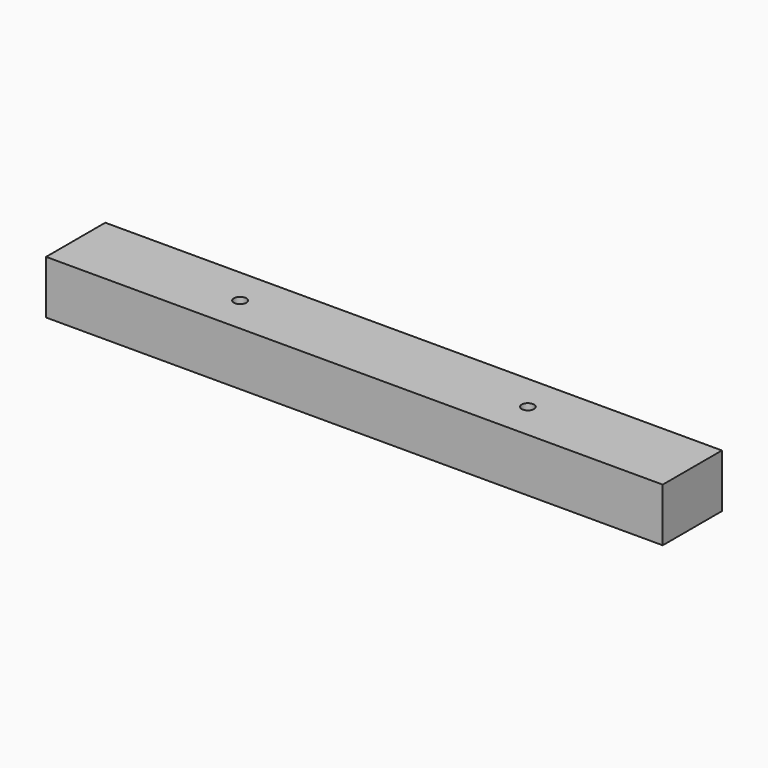
from build123d import *

# Parameters (mm, degrees)
SKETCH_W                 = 300
SKETCH_H                 = 36
PAD_DEPTH                = 26
SKETCH001_R              = 3
SKETCH001_R_2            = 1.6
POCKET_DEPTH             = 20
SKETCH002_R              = 3
POCKET001_DEPTH          = 15
SKETCH003_R              = 3.25
POCKET002_DEPTH          = 7
CLONE002_PLACEMENT_ANGLE = 180


with BuildPart() as part:
    # Sketch → Pad (new body)
    with BuildSketch(Plane.XY):
        with Locations((150, 18)):
            Rectangle(SKETCH_W, SKETCH_H)
    extrude(amount=-PAD_DEPTH)

    # Sketch001 (on Face5 of Pad) → Pocket (cut)
    with BuildSketch(Plane.XY):
        with Locations((25, 18)):
            Circle(SKETCH001_R)
        with Locations((55, 18)):
            Circle(SKETCH001_R)
        with Locations((85, 25)):
            Circle(SKETCH001_R)
        with Locations((105, 25)):
            Circle(SKETCH001_R)
        with Locations((125, 25)):
            Circle(SKETCH001_R)
        with Locations((145, 25)):
            Circle(SKETCH001_R)
        with Locations((165, 25)):
            Circle(SKETCH001_R)
        with Locations((185, 25)):
            Circle(SKETCH001_R)
        with Locations((205, 25)):
            Circle(SKETCH001_R)
        with Locations((225, 25)):
            Circle(SKETCH001_R_2)
        with Locations((235, 25)):
            Circle(SKETCH001_R_2)
        with Locations((245, 25)):
            Circle(SKETCH001_R_2)
        with Locations((255, 25)):
            Circle(SKETCH001_R_2)
        with Locations((265, 25)):
            Circle(SKETCH001_R_2)
        with Locations((275, 25)):
            Circle(SKETCH001_R_2)
        with Locations((285, 25)):
            Circle(SKETCH001_R_2)
        with Locations((85, 11)):
            Circle(SKETCH001_R)
        with Locations((105, 11)):
            Circle(SKETCH001_R)
        with Locations((125, 11)):
            Circle(SKETCH001_R)
        with Locations((145, 11)):
            Circle(SKETCH001_R)
        with Locations((165, 11)):
            Circle(SKETCH001_R)
        with Locations((185, 11)):
            Circle(SKETCH001_R)
        with Locations((205, 11)):
            Circle(SKETCH001_R)
        with Locations((235, 11)):
            Circle(SKETCH001_R_2)
        with Locations((245, 11)):
            Circle(SKETCH001_R_2)
        with Locations((255, 11)):
            Circle(SKETCH001_R_2)
        with Locations((265, 11)):
            Circle(SKETCH001_R_2)
        with Locations((275, 11)):
            Circle(SKETCH001_R_2)
        with Locations((285, 11)):
            Circle(SKETCH001_R_2)
        with Locations((225, 11)):
            Circle(SKETCH001_R_2)
    extrude(amount=-POCKET_DEPTH, mode=Mode.SUBTRACT)

    # Sketch002 (on Face5 of Pocket) → Pocket001 (cut)
    with BuildSketch(Plane(origin=(0, 0, -26), x_dir=(1, 0, 0), z_dir=(0, 0, -1))):
        with Locations((80, -18)):
            Circle(SKETCH002_R)
        with Locations((220, -18)):
            Circle(SKETCH002_R)
    extrude(amount=-POCKET001_DEPTH, mode=Mode.SUBTRACT)

    # Sketch003 (on Face4 of Pocket) → Pocket002 (cut)
    with BuildSketch(Plane.XY):
        with Locations((225, 11)):
            Circle(SKETCH003_R)
        with Locations((235, 11)):
            Circle(SKETCH003_R)
        with Locations((245, 11)):
            Circle(SKETCH003_R)
        with Locations((255, 11)):
            Circle(SKETCH003_R)
        with Locations((265, 11)):
            Circle(SKETCH003_R)
        with Locations((275, 11)):
            Circle(SKETCH003_R)
        with Locations((285, 11)):
            Circle(SKETCH003_R)
        with Locations((225, 25)):
            Circle(SKETCH003_R)
        with Locations((235, 25)):
            Circle(SKETCH003_R)
        with Locations((245, 25)):
            Circle(SKETCH003_R)
        with Locations((255, 25)):
            Circle(SKETCH003_R)
        with Locations((265, 25)):
            Circle(SKETCH003_R)
        with Locations((275, 25)):
            Circle(SKETCH003_R)
        with Locations((285, 25)):
            Circle(SKETCH003_R)
    extrude(amount=-POCKET002_DEPTH, mode=Mode.SUBTRACT)


with BuildPart() as part_1:
    # Clone002 placement: moved
    add(part.part.moved(Location((300, 0, -26))).rotate(Axis((300, 0, -26), (0, 1, 0)), CLONE002_PLACEMENT_ANGLE))


solid = part_1.part
